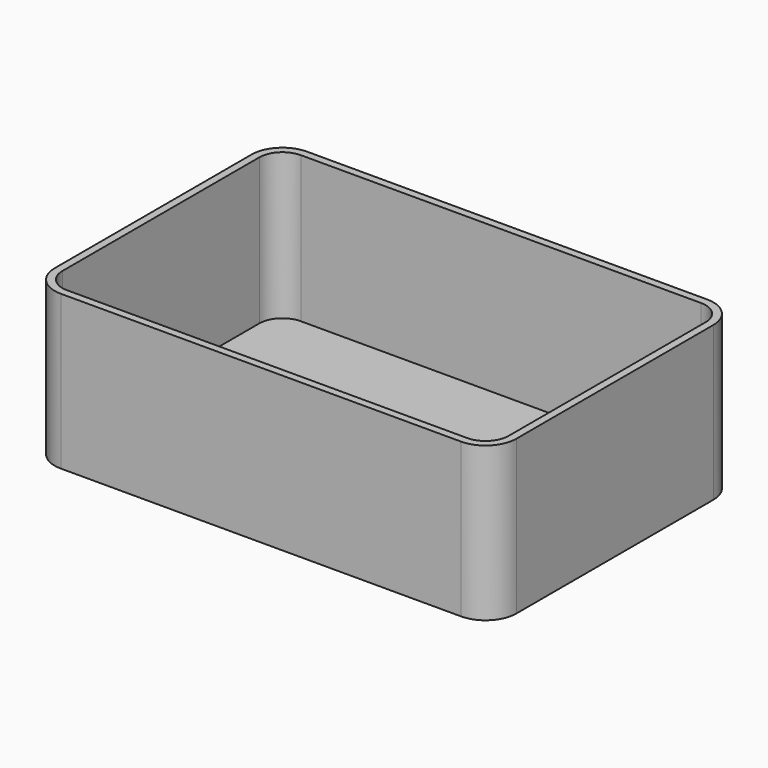
from build123d import *

# Parameters (mm, degrees)
F1_DEPTH = 50
F2_T     = -2.5


with BuildPart() as f1:
    # F0 (on Top) → F1 (new body)
    with BuildSketch(Plane.XY):
        with BuildLine():
            Line((-65, -50), (65, -50))
            ThreePointArc((65, -50), (72.071068, -47.071068), (75, -40))
            Line((75, -40), (75, 40))
            ThreePointArc((75, 40), (72.071068, 47.071068), (65, 50))
            Line((65, 50), (-65, 50))
            ThreePointArc((-65, 50), (-72.071068, 47.071068), (-75, 40))
            Line((-75, 40), (-75, -40))
            ThreePointArc((-75, -40), (-72.071068, -47.071068), (-65, -50))
        make_face()
    extrude(amount=F1_DEPTH)

    # F2
    f2_openings = [f1.faces().sort_by_distance(p)[0] for p in [
        (0, 0, 50),
    ]]
    offset(amount=F2_T, openings=f2_openings)


solid = f1.part
